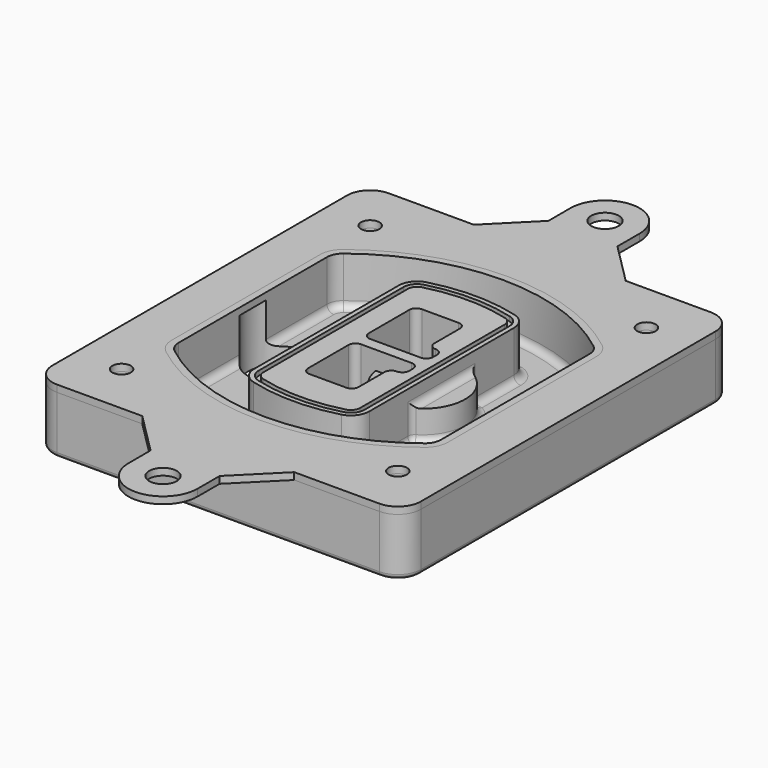
from build123d import *

# Parameters (mm, degrees)
F0_R      = 4
F1_DEPTH  = 25
F2_DEPTH  = 3
F3_DEPTH  = 18
F5_DEPTH  = 21
F6_DEPTH  = 2
F8_DEPTH  = 20
F9_DEPTH  = 16
F10_DEPTH = 25
F7_R      = 6
F7_R_2    = 4
F11_DEPTH = 6
F13_DEPTH = 9
F14_R     = 3
F15_R     = 2
F16_R     = 6
F16_R_2   = 4
F17_DEPTH = 3


with BuildPart() as f1:
    # F0 (on Top) → F1 (new body)
    with BuildSketch(Plane.XY):
        with BuildLine():
            ThreePointArc((-80, -80), (-77.0710678119, -87.0710678119), (-70, -90))
            Line((-70, -90), (70, -90))
            ThreePointArc((70, -90), (77.0710678119, -87.0710678119), (80, -80))
            Line((80, -80), (80, 80))
            ThreePointArc((80, 80), (77.0710678119, 87.0710678119), (70, 90))
            Line((70, 90), (-70, 90))
            ThreePointArc((-70, 90), (-77.0710678119, 87.0710678119), (-80, 80))
            Line((-80, 80), (-80, -80))
        make_face()
        with Locations((-60, -67.5)):
            Circle(F0_R, mode=Mode.SUBTRACT)
        with Locations((60, -67.5)):
            Circle(F0_R, mode=Mode.SUBTRACT)
        with BuildLine():
            ThreePointArc((-64, 40.2934422872), (-62.5820384798, 46.4328484224), (-58.6153846154, 51.3286200352))
            ThreePointArc((-58.6153846154, 51.3286200352), (0, 71.5), (58.6153846154, 51.3286200352))
            ThreePointArc((58.6153846154, 51.3286200352), (62.5820384798, 46.4328484224), (64, 40.2934422872))
            Line((64, 40.2934422872), (64, -40.2934422872))
            ThreePointArc((64, -40.2934422872), (62.5820384798, -46.4328484224), (58.6153846154, -51.3286200352))
            ThreePointArc((58.6153846154, -51.3286200352), (0, -71.5), (-58.6153846154, -51.3286200352))
            ThreePointArc((-58.6153846154, -51.3286200352), (-62.5820384798, -46.4328484224), (-64, -40.2934422872))
            Line((-64, -40.2934422872), (-64, 40.2934422872))
        make_face(mode=Mode.SUBTRACT)
        with Locations((-60, 67.5)):
            Circle(F0_R, mode=Mode.SUBTRACT)
        with Locations((60, 67.5)):
            Circle(F0_R, mode=Mode.SUBTRACT)
        with BuildLine():
            ThreePointArc((58.6153846154, 51.3286200352), (0, 71.5), (-58.6153846154, 51.3286200352))
            ThreePointArc((-58.6153846154, 51.3286200352), (-62.5820384798, 46.4328484224), (-64, 40.2934422872))
            Line((-64, 40.2934422872), (-64, -40.2934422872))
            ThreePointArc((-64, -40.2934422872), (-62.5820384798, -46.4328484224), (-58.6153846154, -51.3286200352))
            ThreePointArc((-58.6153846154, -51.3286200352), (0, -71.5), (58.6153846154, -51.3286200352))
            ThreePointArc((58.6153846154, -51.3286200352), (62.5820384798, -46.4328484224), (64, -40.2934422872))
            Line((64, -40.2934422872), (64, 40.2934422872))
            ThreePointArc((64, 40.2934422872), (62.5820384798, 46.4328484224), (58.6153846154, 51.3286200352))
        make_face()
        with BuildLine():
            Line((-60, -40.2934422872), (-60, 40.2934422872))
            ThreePointArc((-60, 40.2934422872), (-58.9871703427, 44.6787323838), (-56.1538461538, 48.1757121072))
            ThreePointArc((-56.1538461538, 48.1757121072), (0, 67.5), (56.1538461538, 48.1757121072))
            ThreePointArc((56.1538461538, 48.1757121072), (58.9871703427, 44.6787323838), (60, 40.2934422872))
            Line((60, 40.2934422872), (60, -40.2934422872))
            ThreePointArc((60, -40.2934422872), (58.9871703427, -44.6787323838), (56.1538461538, -48.1757121072))
            ThreePointArc((56.1538461538, -48.1757121072), (0, -67.5), (-56.1538461538, -48.1757121072))
            ThreePointArc((-56.1538461538, -48.1757121072), (-58.9871703427, -44.6787323838), (-60, -40.2934422872))
        make_face(mode=Mode.SUBTRACT)
        with BuildLine():
            ThreePointArc((-56.1538461538, 48.1757121072), (-58.9871703427, 44.6787323838), (-60, 40.2934422872))
            Line((-60, 40.2934422872), (-60, -40.2934422872))
            ThreePointArc((-60, -40.2934422872), (-58.9871703427, -44.6787323838), (-56.1538461538, -48.1757121072))
            ThreePointArc((-56.1538461538, -48.1757121072), (0, -67.5), (56.1538461538, -48.1757121072))
            ThreePointArc((56.1538461538, -48.1757121072), (58.9871703427, -44.6787323838), (60, -40.2934422872))
            Line((60, -40.2934422872), (60, 40.2934422872))
            ThreePointArc((60, 40.2934422872), (58.9871703427, 44.6787323838), (56.1538461538, 48.1757121072))
            ThreePointArc((56.1538461538, 48.1757121072), (0, 67.5), (-56.1538461538, 48.1757121072))
        make_face()
        with BuildLine():
            ThreePointArc((54.3076923077, 45.8110311612), (56.2910192399, 43.3631453548), (57, 40.2934422872))
            Line((57, 40.2934422872), (57, -40.2934422872))
            ThreePointArc((57, -40.2934422872), (56.2910192399, -43.3631453548), (54.3076923077, -45.8110311612))
            ThreePointArc((54.3076923077, -45.8110311612), (0, -64.5), (-54.3076923077, -45.8110311612))
            ThreePointArc((-54.3076923077, -45.8110311612), (-56.2910192399, -43.3631453548), (-57, -40.2934422872))
            Line((-57, -40.2934422872), (-57, 40.2934422872))
            ThreePointArc((-57, 40.2934422872), (-56.2910192399, 43.3631453548), (-54.3076923077, 45.8110311612))
            ThreePointArc((-54.3076923077, 45.8110311612), (0, 64.5), (54.3076923077, 45.8110311612))
        make_face(mode=Mode.SUBTRACT)
        with BuildLine():
            Line((57, -40.2934422872), (57, 40.2934422872))
            ThreePointArc((57, 40.2934422872), (56.2910192399, 43.3631453548), (54.3076923077, 45.8110311612))
            ThreePointArc((54.3076923077, 45.8110311612), (0, 64.5), (-54.3076923077, 45.8110311612))
            ThreePointArc((-54.3076923077, 45.8110311612), (-56.2910192399, 43.3631453548), (-57, 40.2934422872))
            Line((-57, 40.2934422872), (-57, -40.2934422872))
            ThreePointArc((-57, -40.2934422872), (-56.2910192399, -43.3631453548), (-54.3076923077, -45.8110311612))
            ThreePointArc((-54.3076923077, -45.8110311612), (0, -64.5), (54.3076923077, -45.8110311612))
            ThreePointArc((54.3076923077, -45.8110311612), (56.2910192399, -43.3631453548), (57, -40.2934422872))
        make_face()
    extrude(amount=-F1_DEPTH)

    # F0 (on Top) → F2 (join)
    with BuildSketch(Plane.XY):
        with BuildLine():
            ThreePointArc((-56.1538461538, 48.1757121072), (-58.9871703427, 44.6787323838), (-60, 40.2934422872))
            Line((-60, 40.2934422872), (-60, -40.2934422872))
            ThreePointArc((-60, -40.2934422872), (-58.9871703427, -44.6787323838), (-56.1538461538, -48.1757121072))
            ThreePointArc((-56.1538461538, -48.1757121072), (0, -67.5), (56.1538461538, -48.1757121072))
            ThreePointArc((56.1538461538, -48.1757121072), (58.9871703427, -44.6787323838), (60, -40.2934422872))
            Line((60, -40.2934422872), (60, 40.2934422872))
            ThreePointArc((60, 40.2934422872), (58.9871703427, 44.6787323838), (56.1538461538, 48.1757121072))
            ThreePointArc((56.1538461538, 48.1757121072), (0, 67.5), (-56.1538461538, 48.1757121072))
        make_face()
        with BuildLine():
            ThreePointArc((54.3076923077, 45.8110311612), (56.2910192399, 43.3631453548), (57, 40.2934422872))
            Line((57, 40.2934422872), (57, -40.2934422872))
            ThreePointArc((57, -40.2934422872), (56.2910192399, -43.3631453548), (54.3076923077, -45.8110311612))
            ThreePointArc((54.3076923077, -45.8110311612), (0, -64.5), (-54.3076923077, -45.8110311612))
            ThreePointArc((-54.3076923077, -45.8110311612), (-56.2910192399, -43.3631453548), (-57, -40.2934422872))
            Line((-57, -40.2934422872), (-57, 40.2934422872))
            ThreePointArc((-57, 40.2934422872), (-56.2910192399, 43.3631453548), (-54.3076923077, 45.8110311612))
            ThreePointArc((-54.3076923077, 45.8110311612), (0, 64.5), (54.3076923077, 45.8110311612))
        make_face(mode=Mode.SUBTRACT)
    extrude(amount=F2_DEPTH)

    # F0 (on Top) → F3 (cut)
    with BuildSketch(Plane.XY):
        with BuildLine():
            Line((57, -40.2934422872), (57, 40.2934422872))
            ThreePointArc((57, 40.2934422872), (56.2910192399, 43.3631453548), (54.3076923077, 45.8110311612))
            ThreePointArc((54.3076923077, 45.8110311612), (0, 64.5), (-54.3076923077, 45.8110311612))
            ThreePointArc((-54.3076923077, 45.8110311612), (-56.2910192399, 43.3631453548), (-57, 40.2934422872))
            Line((-57, 40.2934422872), (-57, -40.2934422872))
            ThreePointArc((-57, -40.2934422872), (-56.2910192399, -43.3631453548), (-54.3076923077, -45.8110311612))
            ThreePointArc((-54.3076923077, -45.8110311612), (0, -64.5), (54.3076923077, -45.8110311612))
            ThreePointArc((54.3076923077, -45.8110311612), (56.2910192399, -43.3631453548), (57, -40.2934422872))
        make_face()
    extrude(amount=-F3_DEPTH, mode=Mode.SUBTRACT)

    # F4 (on face) → F5 (join, through all)
    with BuildSketch(Plane.XY.offset(3)):
        with BuildLine():
            ThreePointArc((-25, -39.2465276821), (-23.3511545998, -44.1109737193), (-19.0842911877, -46.9702398883))
            ThreePointArc((-19.0842911877, -46.9702398883), (0, -49.5), (19.0842911877, -46.9702398883))
            ThreePointArc((19.0842911877, -46.9702398883), (23.3511545998, -44.1109737193), (25, -39.2465276821))
            Line((25, -39.2465276821), (25, 39.2465276821))
            ThreePointArc((25, 39.2465276821), (23.3511545998, 44.1109737193), (19.0842911877, 46.9702398883))
            ThreePointArc((19.0842911877, 46.9702398883), (0, 49.5), (-19.0842911877, 46.9702398883))
            ThreePointArc((-19.0842911877, 46.9702398883), (-23.3511545998, 44.1109737193), (-25, 39.2465276821))
            Line((-25, 39.2465276821), (-25, -39.2465276821))
        make_face()
        with BuildLine():
            ThreePointArc((18.5632183908, 45.0393118368), (21.7633659499, 42.89486221), (23, 39.2465276821))
            Line((23, 39.2465276821), (23, -39.2465276821))
            ThreePointArc((23, -39.2465276821), (21.7633659499, -42.89486221), (18.5632183908, -45.0393118368))
            ThreePointArc((18.5632183908, -45.0393118368), (0, -47.5), (-18.5632183908, -45.0393118368))
            ThreePointArc((-18.5632183908, -45.0393118368), (-21.7633659499, -42.89486221), (-23, -39.2465276821))
            Line((-23, -39.2465276821), (-23, 39.2465276821))
            ThreePointArc((-23, 39.2465276821), (-21.7633659499, 42.89486221), (-18.5632183908, 45.0393118368))
            ThreePointArc((-18.5632183908, 45.0393118368), (0, 47.5), (18.5632183908, 45.0393118368))
        make_face(mode=Mode.SUBTRACT)
        with BuildLine():
            Line((23, -39.2465276821), (23, 39.2465276821))
            ThreePointArc((23, 39.2465276821), (21.7633659499, 42.89486221), (18.5632183908, 45.0393118368))
            ThreePointArc((18.5632183908, 45.0393118368), (0, 47.5), (-18.5632183908, 45.0393118368))
            ThreePointArc((-18.5632183908, 45.0393118368), (-21.7633659499, 42.89486221), (-23, 39.2465276821))
            Line((-23, 39.2465276821), (-23, -39.2465276821))
            ThreePointArc((-23, -39.2465276821), (-21.7633659499, -42.89486221), (-18.5632183908, -45.0393118368))
            ThreePointArc((-18.5632183908, -45.0393118368), (0, -47.5), (18.5632183908, -45.0393118368))
            ThreePointArc((18.5632183908, -45.0393118368), (21.7633659499, -42.89486221), (23, -39.2465276821))
        make_face()
        with BuildLine():
            ThreePointArc((18.0421455939, 43.1083837852), (20.1755772999, 41.6787507007), (21, 39.2465276821))
            Line((21, 39.2465276821), (21, -39.2465276821))
            ThreePointArc((21, -39.2465276821), (20.1755772999, -41.6787507007), (18.0421455939, -43.1083837852))
            ThreePointArc((18.0421455939, -43.1083837852), (0, -45.5), (-18.0421455939, -43.1083837852))
            ThreePointArc((-18.0421455939, -43.1083837852), (-20.1755772999, -41.6787507007), (-21, -39.2465276821))
            Line((-21, -39.2465276821), (-21, 39.2465276821))
            ThreePointArc((-21, 39.2465276821), (-20.1755772999, 41.6787507007), (-18.0421455939, 43.1083837852))
            ThreePointArc((-18.0421455939, 43.1083837852), (0, 45.5), (18.0421455939, 43.1083837852))
        make_face(mode=Mode.SUBTRACT)
        with BuildLine():
            Line((21, -39.2465276821), (21, 39.2465276821))
            ThreePointArc((21, 39.2465276821), (20.1755772999, 41.6787507007), (18.0421455939, 43.1083837852))
            ThreePointArc((18.0421455939, 43.1083837852), (0, 45.5), (-18.0421455939, 43.1083837852))
            ThreePointArc((-18.0421455939, 43.1083837852), (-20.1755772999, 41.6787507007), (-21, 39.2465276821))
            Line((-21, 39.2465276821), (-21, -39.2465276821))
            ThreePointArc((-21, -39.2465276821), (-20.1755772999, -41.6787507007), (-18.0421455939, -43.1083837852))
            ThreePointArc((-18.0421455939, -43.1083837852), (0, -45.5), (18.0421455939, -43.1083837852))
            ThreePointArc((18.0421455939, -43.1083837852), (20.1755772999, -41.6787507007), (21, -39.2465276821))
        make_face()
        with BuildLine():
            Line((-8, -2.5), (14, -2.5))
            ThreePointArc((14, -2.5), (16.1213203436, -3.3786796564), (17, -5.5))
            Line((17, -5.5), (17, -7.5))
            ThreePointArc((17, -7.5), (16.1213203436, -9.6213203436), (14, -10.5))
            ThreePointArc((14, -10.5), (11.8786796564, -11.3786796564), (11, -13.5))
            Line((11, -13.5), (11, -27.5))
            ThreePointArc((11, -27.5), (10.1213203436, -29.6213203436), (8, -30.5))
            Line((8, -30.5), (-8, -30.5))
            ThreePointArc((-8, -30.5), (-10.1213203436, -29.6213203436), (-11, -27.5))
            Line((-11, -27.5), (-11, -5.5))
            ThreePointArc((-11, -5.5), (-10.1213203436, -3.3786796564), (-8, -2.5))
        make_face(mode=Mode.SUBTRACT)
        with BuildLine():
            ThreePointArc((-8, 2.5), (-10.1213203436, 3.3786796564), (-11, 5.5))
            Line((-11, 5.5), (-11, 27.5))
            ThreePointArc((-11, 27.5), (-10.1213203436, 29.6213203436), (-8, 30.5))
            Line((-8, 30.5), (8, 30.5))
            ThreePointArc((8, 30.5), (10.1213203436, 29.6213203436), (11, 27.5))
            Line((11, 27.5), (11, 13.5))
            ThreePointArc((11, 13.5), (11.8786796564, 11.3786796564), (14, 10.5))
            ThreePointArc((14, 10.5), (16.1213203436, 9.6213203436), (17, 7.5))
            Line((17, 7.5), (17, 5.5))
            ThreePointArc((17, 5.5), (16.1213203436, 3.3786796564), (14, 2.5))
            Line((14, 2.5), (-8, 2.5))
        make_face(mode=Mode.SUBTRACT)
    extrude(amount=-F5_DEPTH)

    # F4 (on face) → F6 (cut)
    with BuildSketch(Plane.XY.offset(3)):
        with BuildLine():
            Line((23, -39.2465276821), (23, 39.2465276821))
            ThreePointArc((23, 39.2465276821), (21.7633659499, 42.89486221), (18.5632183908, 45.0393118368))
            ThreePointArc((18.5632183908, 45.0393118368), (0, 47.5), (-18.5632183908, 45.0393118368))
            ThreePointArc((-18.5632183908, 45.0393118368), (-21.7633659499, 42.89486221), (-23, 39.2465276821))
            Line((-23, 39.2465276821), (-23, -39.2465276821))
            ThreePointArc((-23, -39.2465276821), (-21.7633659499, -42.89486221), (-18.5632183908, -45.0393118368))
            ThreePointArc((-18.5632183908, -45.0393118368), (0, -47.5), (18.5632183908, -45.0393118368))
            ThreePointArc((18.5632183908, -45.0393118368), (21.7633659499, -42.89486221), (23, -39.2465276821))
        make_face()
        with BuildLine():
            ThreePointArc((18.0421455939, 43.1083837852), (20.1755772999, 41.6787507007), (21, 39.2465276821))
            Line((21, 39.2465276821), (21, -39.2465276821))
            ThreePointArc((21, -39.2465276821), (20.1755772999, -41.6787507007), (18.0421455939, -43.1083837852))
            ThreePointArc((18.0421455939, -43.1083837852), (0, -45.5), (-18.0421455939, -43.1083837852))
            ThreePointArc((-18.0421455939, -43.1083837852), (-20.1755772999, -41.6787507007), (-21, -39.2465276821))
            Line((-21, -39.2465276821), (-21, 39.2465276821))
            ThreePointArc((-21, 39.2465276821), (-20.1755772999, 41.6787507007), (-18.0421455939, 43.1083837852))
            ThreePointArc((-18.0421455939, 43.1083837852), (0, 45.5), (18.0421455939, 43.1083837852))
        make_face(mode=Mode.SUBTRACT)
    extrude(amount=-F6_DEPTH, mode=Mode.SUBTRACT)

    # F7 (on face) → F8 (join)
    with BuildSketch(Plane(origin=(0, 0, -25), x_dir=(1, 0, 0), z_dir=(0, 0, -1))):
        with BuildLine():
            ThreePointArc((3.28842436, 0), (16.7567035675, 13.4682792075), (30.224982775, 0))
            Line((30.224982775, 0), (35.224982775, 0))
            ThreePointArc((35.224982775, 0), (16.7567035675, 18.4682792075), (-1.71157564, 0))
            Line((-1.71157564, 0), (3.28842436, 0))
        make_face()
        with BuildLine():
            Line((3.28842436, 0), (30.224982775, 0))
            ThreePointArc((30.224982775, 0), (16.7567035675, 13.4682792075), (3.28842436, 0))
        make_face()
        with BuildLine():
            ThreePointArc((3.28842436, 0), (16.7567035675, -13.4682792075), (30.224982775, 0))
            Line((30.224982775, 0), (3.28842436, 0))
        make_face()
        with BuildLine():
            Line((35.224982775, 0), (30.224982775, 0))
            ThreePointArc((30.224982775, 0), (16.7567035675, -13.4682792075), (3.28842436, 0))
            Line((3.28842436, 0), (-1.71157564, 0))
            ThreePointArc((-1.71157564, 0), (16.7567035675, -18.4682792075), (35.224982775, 0))
        make_face()
    extrude(amount=-F8_DEPTH)

    # F7 (on face) → F9 (cut)
    with BuildSketch(Plane(origin=(0, 0, -25), x_dir=(1, 0, 0), z_dir=(0, 0, -1))):
        with BuildLine():
            Line((3.28842436, 0), (30.224982775, 0))
            ThreePointArc((30.224982775, 0), (16.7567035675, 13.4682792075), (3.28842436, 0))
        make_face()
        with BuildLine():
            ThreePointArc((3.28842436, 0), (16.7567035675, -13.4682792075), (30.224982775, 0))
            Line((30.224982775, 0), (3.28842436, 0))
        make_face()
    extrude(amount=-F9_DEPTH, mode=Mode.SUBTRACT)

    # F7 (on face) → F10 (cut)
    with BuildSketch(Plane(origin=(0, 0, -25), x_dir=(1, 0, 0), z_dir=(0, 0, -1))):
        with BuildLine():
            Line((-59.0318229325, 0), (-32.0952645175, 0))
            ThreePointArc((-32.0952645175, 0), (-45.563543725, 13.4682792075), (-59.0318229325, 0))
        make_face()
        with BuildLine():
            ThreePointArc((-59.0318229325, 0), (-45.563543725, -13.4682792075), (-32.0952645175, 0))
            Line((-32.0952645175, 0), (-59.0318229325, 0))
        make_face()
    extrude(amount=-F10_DEPTH, mode=Mode.SUBTRACT)

    # F7 (on face) → F11 (cut)
    with BuildSketch(Plane(origin=(0, 0, -25), x_dir=(1, 0, 0), z_dir=(0, 0, -1))):
        with Locations((60, -67.5)):
            Circle(F7_R)
        with Locations((60, -67.5)):
            Circle(F7_R_2, mode=Mode.SUBTRACT)
        with Locations((60, -67.5)):
            Circle(F7_R)
        with Locations((60, -67.5)):
            Circle(F7_R_2, mode=Mode.SUBTRACT)
        with Locations((-60, -67.5)):
            Circle(F7_R)
        with Locations((-60, -67.5)):
            Circle(F7_R_2, mode=Mode.SUBTRACT)
        with Locations((-60, -67.5)):
            Circle(F7_R)
        with Locations((-60, -67.5)):
            Circle(F7_R_2, mode=Mode.SUBTRACT)
        with Locations((-60, 67.5)):
            Circle(F7_R)
        with Locations((-60, 67.5)):
            Circle(F7_R_2, mode=Mode.SUBTRACT)
        with Locations((-60, 67.5)):
            Circle(F7_R)
        with Locations((-60, 67.5)):
            Circle(F7_R_2, mode=Mode.SUBTRACT)
        with Locations((60, 67.5)):
            Circle(F7_R)
        with Locations((60, 67.5)):
            Circle(F7_R_2, mode=Mode.SUBTRACT)
        with Locations((60, 67.5)):
            Circle(F7_R)
        with Locations((60, 67.5)):
            Circle(F7_R_2, mode=Mode.SUBTRACT)
    extrude(amount=-F11_DEPTH, mode=Mode.SUBTRACT)

    # F12 (on face) → F13 (cut, through all)
    with BuildSketch(Plane(origin=(0, 0, -9), x_dir=(1, 0, 0), z_dir=(0, 0, -1))):
        with BuildLine():
            Line((11, 13.5), (11, 17.5481537753))
            ThreePointArc((11, 17.5481537753), (2.5696536419, 11.8239143813), (-1.5415842455, 2.5))
            Line((-1.5415842455, 2.5), (3.5224848595, 2.5))
            ThreePointArc((3.5224848595, 2.5), (6.1857188154, 8.3455872281), (11.2536447004, 12.2927168648))
            ThreePointArc((11.2536447004, 12.2927168648), (11.0640958889, 12.8831798879), (11, 13.5))
        make_face()
        with BuildLine():
            ThreePointArc((11.2536447004, -12.2927168648), (6.1857188154, -8.3455872281), (3.5224848595, -2.5))
            Line((3.5224848595, -2.5), (-1.5415842455, -2.5))
            ThreePointArc((-1.5415842455, -2.5), (2.5696536419, -11.8239143813), (11, -17.5481537753))
            Line((11, -17.5481537753), (11, -13.5))
            ThreePointArc((11, -13.5), (11.0640958889, -12.8831798879), (11.2536447004, -12.2927168648))
        make_face()
        with BuildLine():
            ThreePointArc((11.2536447004, 12.2927168648), (6.1857188154, 8.3455872281), (3.5224848595, 2.5))
            Line((3.5224848595, 2.5), (14, 2.5))
            ThreePointArc((14, 2.5), (16.1213203436, 3.3786796564), (17, 5.5))
            Line((17, 5.5), (17, 7.5))
            ThreePointArc((17, 7.5), (16.1213203436, 9.6213203436), (14, 10.5))
            ThreePointArc((14, 10.5), (12.3601599782, 10.9878446101), (11.2536447004, 12.2927168648))
        make_face()
        with BuildLine():
            Line((14, -2.5), (3.5224848595, -2.5))
            ThreePointArc((3.5224848595, -2.5), (6.1857188154, -8.3455872281), (11.2536447004, -12.2927168648))
            ThreePointArc((11.2536447004, -12.2927168648), (12.3601599782, -10.9878446101), (14, -10.5))
            ThreePointArc((14, -10.5), (16.1213203436, -9.6213203436), (17, -7.5))
            Line((17, -7.5), (17, -5.5))
            ThreePointArc((17, -5.5), (16.1213203436, -3.3786796564), (14, -2.5))
        make_face()
    extrude(amount=F13_DEPTH, mode=Mode.SUBTRACT)

    # F14
    f14_edges = [f1.edges().sort_by_distance(p)[0] for p in [
        (-57, -23.703476, -18),
        (-57, 23.703476, -18),
        (25, 0, -5),
        (25, 16.526506, -11.5),
        (25, -16.526506, -11.5),
        (25, -27.886517, -18),
        (35.224983, 0, -18),
    ]]
    fillet(f14_edges, radius=F14_R)

    # F15
    f15_edges = [f1.edges().sort_by_distance(p)[0] for p in [
        (0, -90, -25),
    ]]
    fillet(f15_edges, radius=F15_R)


with BuildPart() as f17:
    # F16 (on face) → F17 (new body, through all)
    with BuildSketch(Plane.XY):
        with BuildLine():
            Line((33, -90), (-33, -90))
            Line((-33, -90), (-15, -108))
            Line((-15, -108), (-15, -120))
            ThreePointArc((-15, -120), (0, -135), (15, -120))
            Line((15, -120), (15, -108))
            Line((15, -108), (33, -90))
        make_face()
        with Locations((0, -120)):
            Circle(F16_R, mode=Mode.SUBTRACT)
        with BuildLine():
            ThreePointArc((15, 120), (0, 135), (-15, 120))
            Line((-15, 120), (-15, 108))
            Line((-15, 108), (-33, 90))
            Line((-33, 90), (33, 90))
            Line((33, 90), (15, 108))
            Line((15, 108), (15, 120))
        make_face()
        with Locations((0, 120)):
            Circle(F16_R, mode=Mode.SUBTRACT)
        with BuildLine():
            Line((33, 90), (-33, 90))
            Line((-33, 90), (-70, 90))
            ThreePointArc((-70, 90), (-77.0710678119, 87.0710678119), (-80, 80))
            Line((-80, 80), (-80, -80))
            ThreePointArc((-80, -80), (-77.0710678119, -87.0710678119), (-70, -90))
            Line((-70, -90), (-33, -90))
            Line((-33, -90), (33, -90))
            Line((33, -90), (70, -90))
            ThreePointArc((70, -90), (77.0710678119, -87.0710678119), (80, -80))
            Line((80, -80), (80, 80))
            ThreePointArc((80, 80), (77.0710678119, 87.0710678119), (70, 90))
            Line((70, 90), (33, 90))
        make_face()
        with Locations((-60, -67.5)):
            Circle(F16_R_2, mode=Mode.SUBTRACT)
        with Locations((60, -67.5)):
            Circle(F16_R_2, mode=Mode.SUBTRACT)
        with Locations((-60, 67.5)):
            Circle(F16_R_2, mode=Mode.SUBTRACT)
        with BuildLine():
            ThreePointArc((-60, 40.2934422872), (-58.9871703427, 44.6787323838), (-56.1538461538, 48.1757121072))
            ThreePointArc((-56.1538461538, 48.1757121072), (0, 67.5), (56.1538461538, 48.1757121072))
            ThreePointArc((56.1538461538, 48.1757121072), (58.9871703427, 44.6787323838), (60, 40.2934422872))
            Line((60, 40.2934422872), (60, -40.2934422872))
            ThreePointArc((60, -40.2934422872), (58.9871703427, -44.6787323838), (56.1538461538, -48.1757121072))
            ThreePointArc((56.1538461538, -48.1757121072), (0, -67.5), (-56.1538461538, -48.1757121072))
            ThreePointArc((-56.1538461538, -48.1757121072), (-58.9871703427, -44.6787323838), (-60, -40.2934422872))
            Line((-60, -40.2934422872), (-60, 40.2934422872))
        make_face(mode=Mode.SUBTRACT)
        with Locations((60, 67.5)):
            Circle(F16_R_2, mode=Mode.SUBTRACT)
    extrude(amount=F17_DEPTH)


solid = Compound([f1.part, f17.part])
